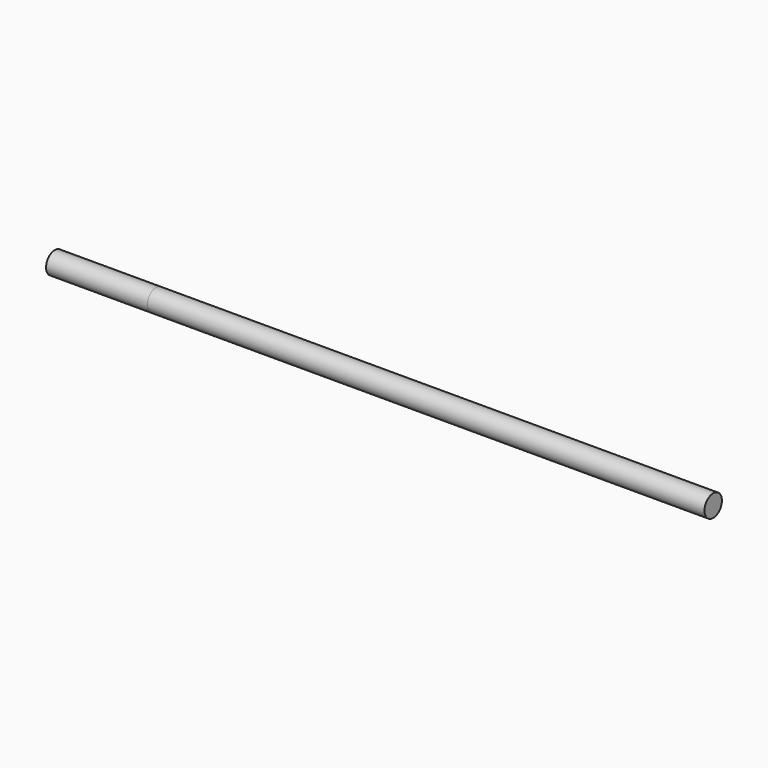
from build123d import *

# Parameters (mm, degrees)
F0_R     = 10.75
F1_DEPTH = 550
F2_DEPTH = 100


with BuildPart() as f1:
    # F0 (on Right) → F1 (new body)
    with BuildSketch(Plane.YZ):
        Circle(F0_R)
    extrude(amount=F1_DEPTH)


with BuildPart() as f2:
    # F0 (on Right) → F2 (new body)
    with BuildSketch(Plane.YZ):
        Circle(F0_R)
    extrude(amount=-F2_DEPTH)


solid = Compound([f1.part, f2.part])
